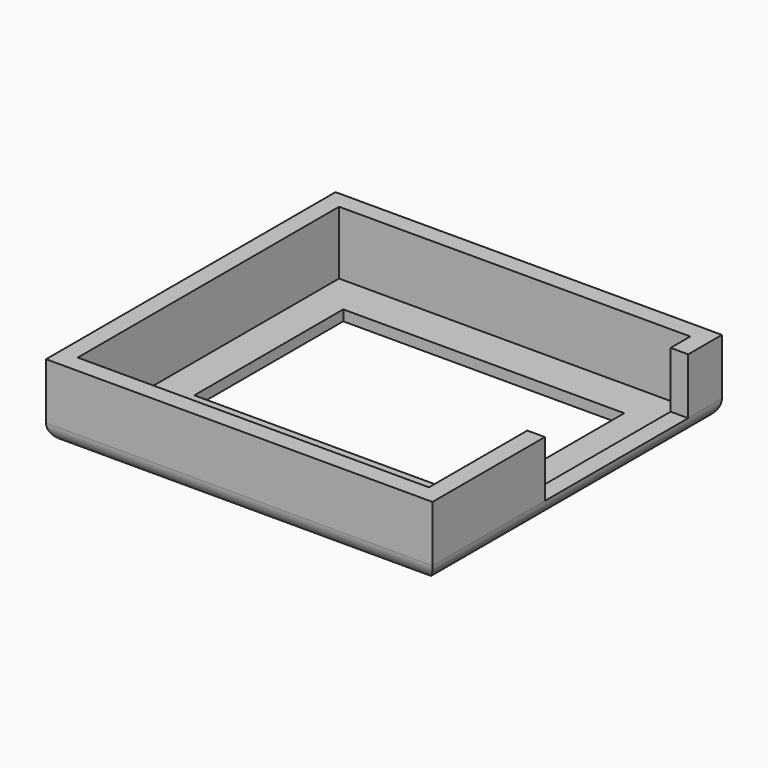
from build123d import *

# Parameters (mm, degrees)
F0_W      = 110
F0_H      = 103
F0_R      = 9
F0_W_2    = 80
F0_H_2    = 53
F1_DEPTH  = 21
F2_W      = 100
F2_H      = 93
F2_W_2    = 80
F2_H_2    = 53
F2_R      = 9
F3_DEPTH  = 18
F4_R      = 5
F5_ANGLE  = 180
F7_W      = 51
F7_H      = 16
F3_FACE_W = 93
F3_FACE_H = 18
F8_DEPTH  = 25


with BuildPart() as f1:
    # F0 (on Top) → F1 (new body)
    with BuildSketch(Plane.XY):
        with Locations((-8.2950558215, 3.6971443333)):
            Rectangle(F0_W, F0_H)
        with Locations((28.7049441785, -30.8028556667)):
            Circle(F0_R, mode=Mode.SUBTRACT)
        with Locations((-8.2950558215, 12.6971443333)):
            Rectangle(F0_W_2, F0_H_2, mode=Mode.SUBTRACT)
    extrude(amount=F1_DEPTH)

    # F2 (on face) → F3 (cut)
    with BuildSketch(Plane(origin=(0, 0, 0), x_dir=(1, 0, 0), z_dir=(0, 0, -1))):
        with Locations((-8.2950558215, -3.6971443333)):
            Rectangle(F2_W, F2_H)
        with Locations((-8.2950558215, -12.6971443333)):
            Rectangle(F2_W_2, F2_H_2, mode=Mode.SUBTRACT)
        with Locations((28.7049441785, 30.8028556667)):
            Circle(F2_R, mode=Mode.SUBTRACT)
    extrude(amount=-F3_DEPTH, mode=Mode.SUBTRACT)

    # F4
    f4_edges = [f1.edges().sort_by_distance(p)[0] for p in [
        (-8.295056, -47.802856, 21),
        (46.704944, 3.697144, 21),
        (-8.295056, 55.197144, 21),
        (-63.295056, 3.697144, 21),
    ]]
    fillet(f4_edges, radius=F4_R)


with BuildPart() as f1_1:
    # F5: moved
    add(f1.part.rotate(Axis((46.7049441785, 3.6971443333, 0), (0, 1, 0)), F5_ANGLE))


with BuildPart() as f1_2:
    # F6: moved
    add(f1_1.part.moved(Location((-101.8, -3.3, 22.4))))

    # F7 (on face) + F3_face (on face) → F8 (cut)
    with BuildSketch(Plane.YZ.offset(54.9049441785)):
        with Locations((14.3971443333, 14.4)):
            Rectangle(F7_W, F7_H)
    with BuildSketch(Plane(origin=(49.9049441785, 0.3971443333, 13.4), x_dir=(0, -1, 0), z_dir=(-1, 0, 0))):
        Rectangle(F3_FACE_W, F3_FACE_H)
    extrude(amount=-F8_DEPTH, dir=(1, 0, 0), mode=Mode.SUBTRACT)


solid = f1_2.part
